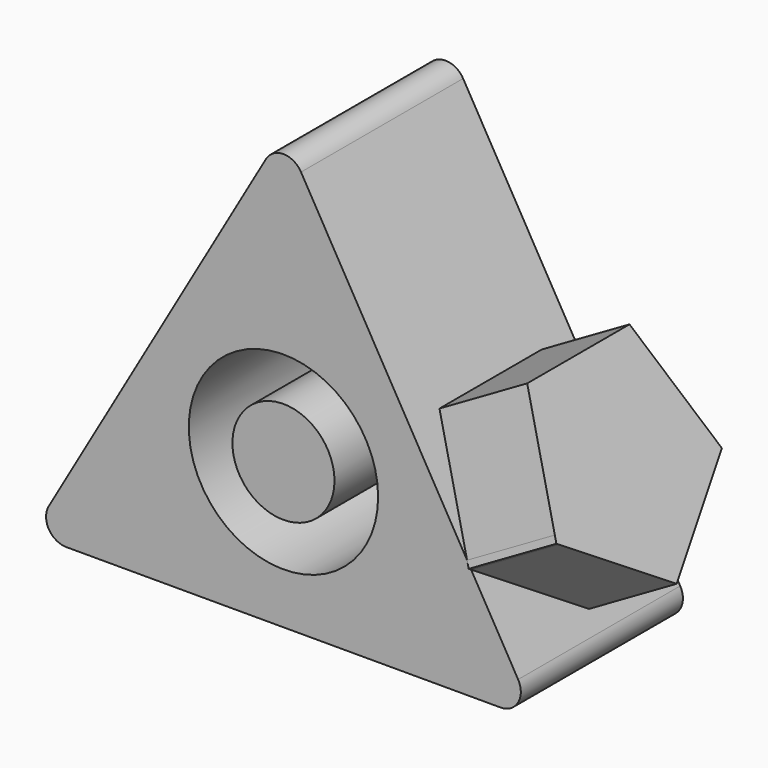
from build123d import *

# Parameters (mm, degrees)
F0_R          = 23.3574333424
F1_DEPTH      = 25
F1_DEPTH_BACK = 25
F0_R_2        = 12.5938573021
F3_DEPTH      = 25
F4_R          = 5
F5_R          = 5
F6_R          = 5


with BuildPart() as f1:
    # F0 (on Front) → F1 (new body, two sides)
    with BuildSketch(Plane.XZ) as f1_sk:
        Polygon((-62.2352894936, -35.9315611422), (62.2352894936, -35.9315611422), (0, 71.8631222844), align=None)
        Circle(F0_R, mode=Mode.SUBTRACT)
    extrude(amount=F1_DEPTH)
    extrude(f1_sk.sketch, amount=-F1_DEPTH_BACK)

    # F2 (on face) → F3 (join)
    with BuildSketch(Plane(origin=(31.1176447468, 0, 17.9657805711), x_dir=(0, 1, 0), z_dir=(0.8660254038, 0, 0.5))):
        Polygon((25.5262657143, -30.0079250659), (25, -28.3882457409), (25, -30.3902794884), align=None)
        Polygon((-25, -30.3902794884), (-25, -28.3882457409), (-25.5262657143, -30.0079250659), align=None)
        Polygon((15.7760998173, 0), (-15.7760998173, 0), (-25, -28.3882457409), (-25, -30.3902794884), (0, -48.5538426885), (25, -30.3902794884), (25, -28.3882457409), align=None)
    extrude(amount=F3_DEPTH)

    # F4
    f4_edges = [f1.edges().sort_by_distance(p)[0] for p in [
        (0, 0, 71.863122),
    ]]
    fillet(f4_edges, radius=F4_R)

    # F5
    f5_edges = [f1.edges().sort_by_distance(p)[0] for p in [
        (62.235289, 0, -35.931561),
    ]]
    fillet(f5_edges, radius=F5_R)

    # F6
    f6_edges = [f1.edges().sort_by_distance(p)[0] for p in [
        (-62.235289, 0, -35.931561),
    ]]
    fillet(f6_edges, radius=F6_R)


with BuildPart() as f1b:
    # F0 (on Front) → F1, piece 2 (new body, two sides)
    with BuildSketch(Plane.XZ) as f1_2_sk:
        Circle(F0_R_2)
    extrude(amount=F1_DEPTH)
    extrude(f1_2_sk.sketch, amount=-F1_DEPTH_BACK)


solid = Compound([f1.part, f1b.part])
